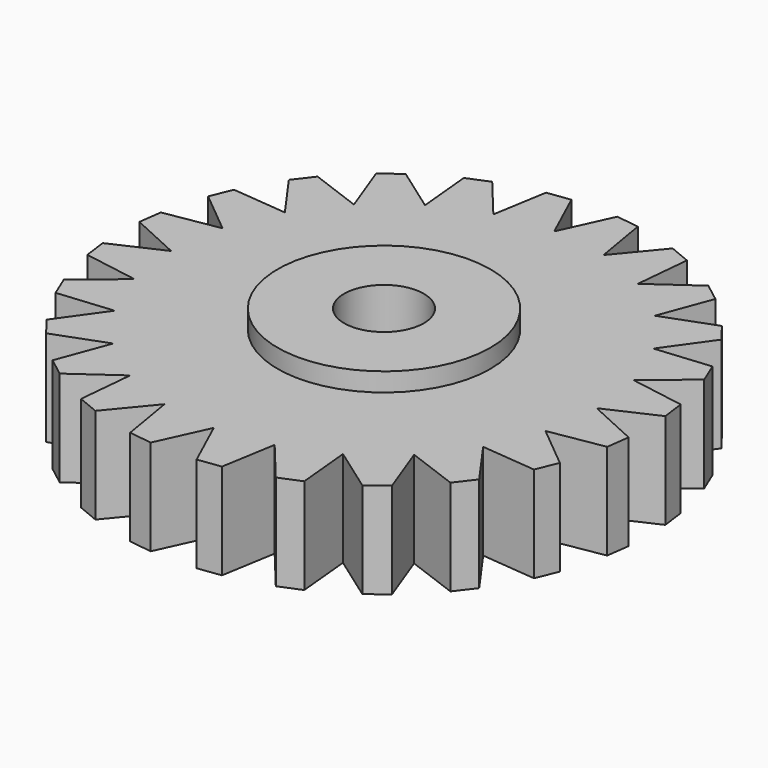
from build123d import *

# Parameters (mm, degrees)
F0_R     = 10.16
F1_DEPTH = 9.144
F0_R_2   = 3.81
F2_DEPTH = 10.922
F3_DEPTH = 1.778


with BuildPart() as f1:
    # F0 (on Top) → F1 (new body)
    with BuildSketch(Plane.XY):
        Polygon((-2.192223, 25.111405), (-4.383126, 24.822963), (-5.259222, 19.627621), (-8.616823, 23.68837), (-10.658424, 22.842703), (-10.16, 17.597653), (-14.454226, 20.650987), (-16.207359, 19.305753), (-14.368424, 14.368424), (-19.306565, 16.206318), (-20.651826, 14.453159), (-17.597653, 10.16), (-22.843211, 10.65718), (-23.688878, 8.615604), (-19.627621, 5.259197), (-24.823141, 4.381805), (-25.111583, 2.190902), (-20.32, 0), (-25.111405, -2.192198), (-24.822963, -4.3831), (-19.627621, -5.259197), (-23.68837, -8.616823), (-22.842703, -10.658399), (-17.597653, -10.16), (-20.651013, -14.4542), (-19.305753, -16.207359), (-14.368424, -14.368399), (-16.206318, -19.306565), (-14.453159, -20.6518), (-10.16, -17.597628), (-10.65718, -22.843211), (-8.615604, -23.688853), (-5.259222, -19.627596), (-4.381805, -24.823115), (-2.190902, -25.111558), (0, -20.32), (2.192198, -25.11138), (4.3831, -24.822937), (5.259197, -19.627596), (8.616823, -23.688345), (10.658399, -22.842703), (10.16, -17.597628), (14.4542, -20.650987), (16.207359, -19.305753), (14.368399, -14.368399), (19.306565, -16.206292), (20.6518, -14.453159), (17.597628, -10.16), (22.843211, -10.65718), (23.688853, -8.615578), (19.627596, -5.259197), (24.823115, -4.381779), (25.111558, -2.190902), (20.32, 0), (25.11138, 2.192223), (24.822937, 4.383126), (19.627596, 5.259197), (23.688345, 8.616823), (22.842677, 10.658424), (17.597628, 10.16), (20.650987, 14.4542), (19.305753, 16.207359), (14.368399, 14.368424), (16.206292, 19.306565), (14.453133, 20.6518), (10.16, 17.597653), (10.65718, 22.843211), (8.615578, 23.688878), (5.259197, 19.627621), (4.381779, 24.823141), (2.190877, 25.111558), (0, 20.32), align=None)
        Circle(F0_R, mode=Mode.SUBTRACT)
    extrude(amount=F1_DEPTH)

    # F0 (on Top) → F2 (join)
    with BuildSketch(Plane.XY):
        Circle(F0_R)
        Circle(F0_R_2, mode=Mode.SUBTRACT)
    extrude(amount=F2_DEPTH)

    # F0 (on Top) → F3 (join)
    with BuildSketch(Plane.XY):
        Circle(F0_R)
        Circle(F0_R_2, mode=Mode.SUBTRACT)
    extrude(amount=-F3_DEPTH)


solid = f1.part
